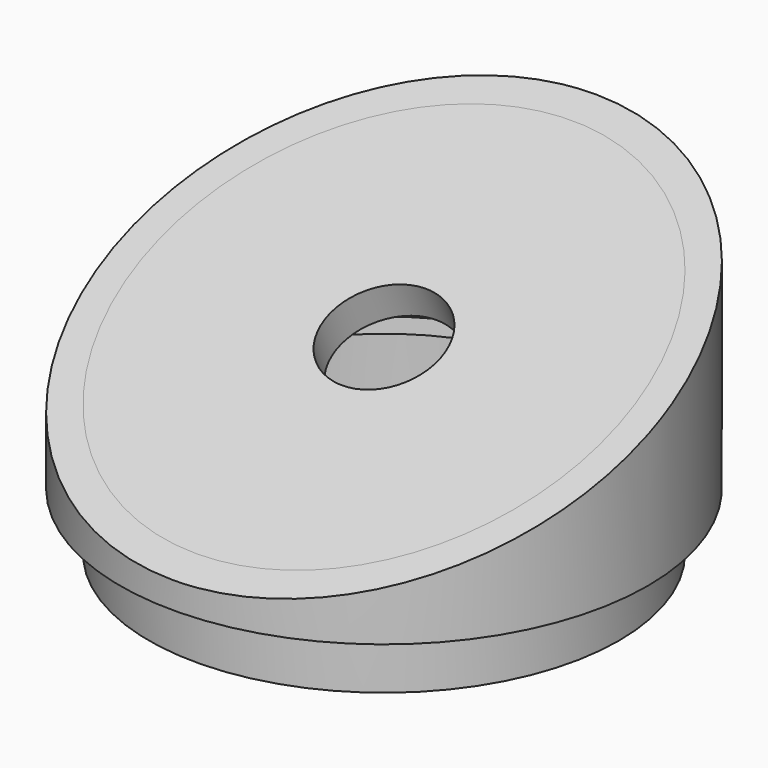
from build123d import *

# Parameters (mm, degrees)
F0_R      = 27.5
F0_R_2    = 24.5
F1_DEPTH  = 25
F3_DEPTH  = 82.3
F0_R_3    = 21.5
F7_DEPTH  = 3
F8_DEPTH  = 6
F9_R      = 5.9
F10_DEPTH = 12.8


with BuildPart() as f1:
    # F0 (on Top) → F1 (new body)
    with BuildSketch(Plane.XY):
        with Locations((-46.2939329445, 17.4860227853)):
            Circle(F0_R)
        with Locations((-46.2939329445, 17.4860227853)):
            Circle(F0_R_2, mode=Mode.SUBTRACT)
    extrude(amount=F1_DEPTH)

    # F2 (on Right) → F3 (cut)
    with BuildSketch(Plane.YZ):
        Polygon((44.9860227853, 25), (-10.0139772147, 25), (-10.0139772147, 2.7644119691), align=None)
    extrude(amount=-F3_DEPTH, mode=Mode.SUBTRACT)

    # F6: sweep along a path in F5
    with BuildLine(Plane.XZ) as f6_path:
        Line((-46.2939329445, 4.0015787818), (-46.2939329445, 0))
    # F4 (on face) → F6 (sweep)
    with BuildSketch(Plane(origin=(0, -2.3674011747, 5.8557958722), x_dir=(1, 0, 0), z_dir=(0, -0.3748115672, 0.9271010134))):
        with BuildLine():
            add(Edge.make_bspline(
                [(-21.7939329445, 21.4145208265), (-21.7939329445, -24.3574545801), (-58.5439329445, -1.4714668768), (-95.2939329445, 21.4145208265), (-58.5439329445, 44.3005085297), (-21.7939329445, 67.186496233), (-21.7939329445, 21.4145208265)],
                knots=[4.7123889804, 4.7123889804, 4.7123889804, 6.8067840828, 6.8067840828, 8.9011791852, 8.9011791852, 10.9955742876, 10.9955742876, 10.9955742876], degree=2, weights=[1, 0.5, 1, 0.5, 1, 0.5, 1]))
        make_face()
    sweep(path=f6_path.line)

    # F0 (on Top) → F7 (join)
    with BuildSketch(Plane.XY):
        with Locations((-46.2939329445, 17.4860227853)):
            Circle(F0_R_2)
        with Locations((-46.2939329445, 17.4860227853)):
            Circle(F0_R_3, mode=Mode.SUBTRACT)
    extrude(amount=F7_DEPTH)

    # F0 (on Top) → F8 (join)
    with BuildSketch(Plane.XY):
        with Locations((-46.2939329445, 17.4860227853)):
            Circle(F0_R_2)
        with Locations((-46.2939329445, 17.4860227853)):
            Circle(F0_R_3, mode=Mode.SUBTRACT)
    extrude(amount=-F8_DEPTH)

    # F9 (on face) → F10 (cut)
    with BuildSketch(Plane(origin=(0, -2.3674011747, 5.8557958722), x_dir=(1, 0, 0), z_dir=(0, -0.3748115672, 0.9271010134))):
        with Locations((-46.2939329445, 21.4145208265)):
            Circle(F9_R)
    extrude(amount=-F10_DEPTH, mode=Mode.SUBTRACT)


solid = f1.part
